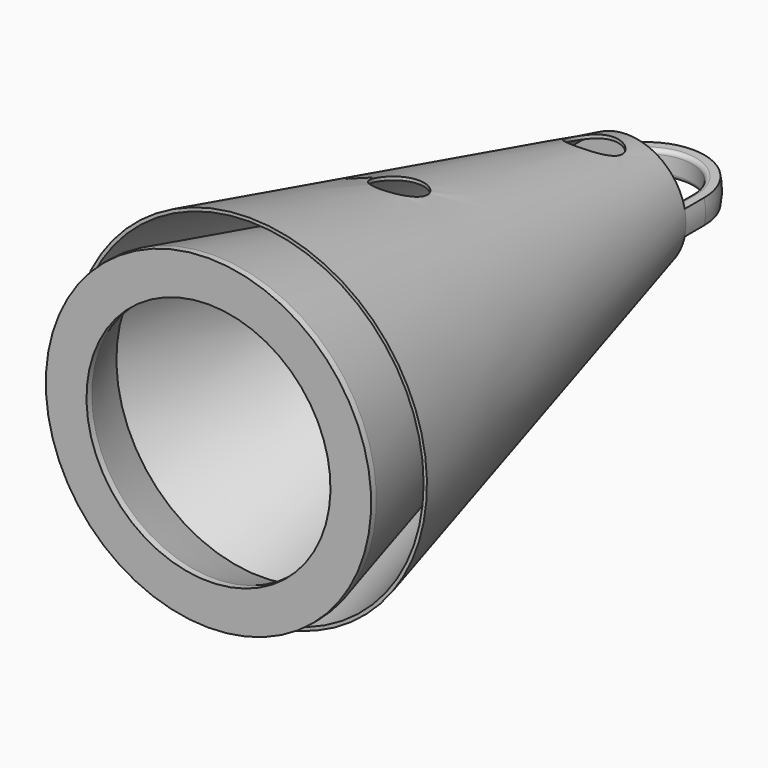
from build123d import *

# Parameters (mm, degrees)
SKETCH003_R  = 3
POCKET_DEPTH = 21.81570031
SKETCH002_R  = 5
PAD_DEPTH    = 2


with BuildPart() as male:
    # Sketch → Revolution (revolve)
    with BuildSketch(Plane.YZ):
        Polygon((0.8, 20), (0, 20), (0, 15), (0.8, 15), (8.0661615148, 17.7772898777), (58.9969042854, 5.0013585701), (58.9969042854, 0), (60.5969042854, 0), (60.5969042854, 5), align=None)
    revolve(axis=Axis((0, 0, 0), (0, 1, 0)))


with BuildPart() as female:
    # Sketch001 → Revolution001 (revolve)
    with BuildSketch(Plane.YZ):
        Polygon((62.6969042854, 0), (62.6969042854, 7.2568700966), (6.3066808881, 21.4023072403), (6.3066808881, 21.81470031), (64.2969042854, 7.2679045961), (64.2969042854, 0), align=None)
    revolve(axis=Axis((0, 0, 0), (0, 1, 0)))

    # Sketch003 → Pocket (cut, through all)
    with BuildSketch(Plane.XY):
        with Locations((0, 29.2969042854)):
            Circle(SKETCH003_R)
        with Locations((0, 59.2969042854)):
            Circle(SKETCH003_R)
    extrude(amount=POCKET_DEPTH, mode=Mode.SUBTRACT)

    # AdditivePipe: sweep along a path in Sketch004
    with BuildLine(Plane.XY) as additivepipe_path:
        Line((-7.2679045961, 64.2969042854), (-7.2679045961, 67.2969042854))
        ThreePointArc((-7.2679045961, 67.2969042854), (0, 74.5648088815), (7.2679045961, 67.2969042854))
        Line((7.2679045961, 67.2969042854), (7.2679045961, 64.2969042854))
    # Sketch005 (on Face7 of Pocket) → AdditivePipe (sweep)
    with BuildSketch(Plane.ZX.offset(64.2969042854)):
        with BuildLine():
            Line((1.5, 7.1114300403), (1.5, 6.1114300403))
            ThreePointArc((1, 5.6114300403), (1.3535533906, 5.7578766497), (1.5, 6.1114300403))
            Line((1, 5.6114300403), (-1, 5.6114300403))
            ThreePointArc((-1.5, 6.1114300403), (-1.3535533906, 5.7578766497), (-1, 5.6114300403))
            Line((-1.5, 7.1114300403), (-1.5, 6.1114300403))
            ThreePointArc((1.5, 7.1114300403), (0, 7.2679045961), (-1.5, 7.1114300403))
        make_face()
    sweep(path=additivepipe_path.line)


with BuildPart() as magnet:
    # Sketch002 (on Face1 of ShapeBinder001) → Pad (new body)
    with BuildSketch(Plane.ZX.offset(64.2969042854)):
        Circle(SKETCH002_R)
    extrude(amount=PAD_DEPTH)


solid = Compound([male.part, female.part, magnet.part])
